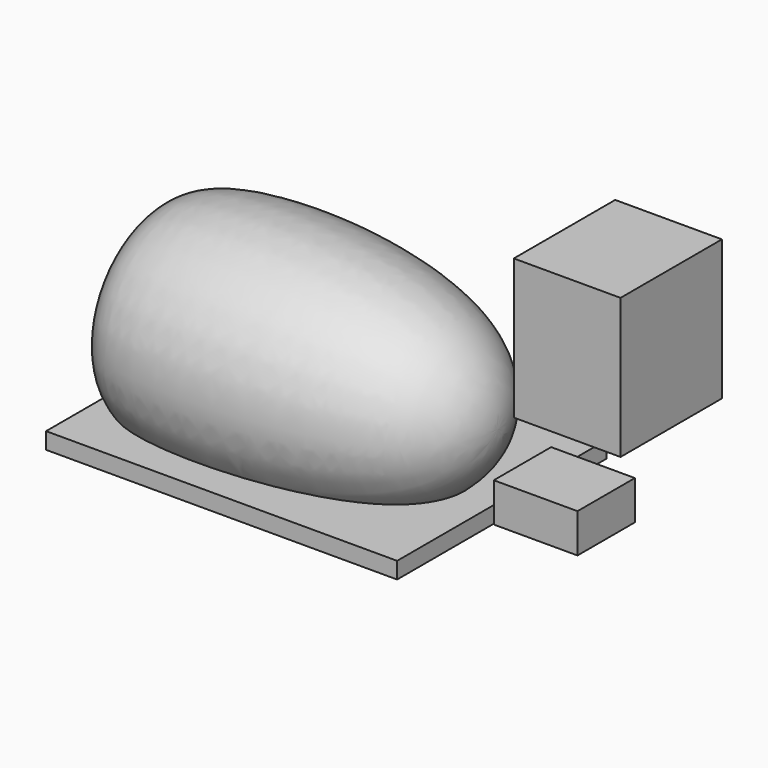
from build123d import *

# Parameters (mm, degrees)
F3_W          = 105.2532196045
F3_H          = 4.9405843019
F4_DEPTH      = 37.47697
F4_DEPTH_BACK = 41.04518
F5_W          = 25.1
F5_H          = 21.5
F6_DEPTH      = 11.7
F7_W          = 32
F7_H          = 38
F8_DEPTH      = 42


with BuildPart() as f2:
    # F0 (on Top) → F2 (revolve)
    with BuildSketch(Plane.XY):
        with BuildLine():
            add(Edge.make_bspline(
                [(0, 0), (0.2450121653, -7.966382748), (-13.094756908, -33.965562893), (-94.5380949913, -36.6688246631), (-102.0009481515, -25.3436889453), (-103.6303898238, -19.7135839509)],
                knots=[0, 0, 0, 0, 0.3027742251, 0.7790914601, 1, 1, 1, 1], degree=3))
            Line((0, 0), (-7.2615784593, 0))
            add(Edge.make_bspline(
                [(-97.6178643795, -20.2601770045), (-96.8786060506, -22.3539290403), (-92.3715666324, -29.0456948049), (-15.0021184586, -30.3458982987), (-7.5155254515, -5.1791248516), (-7.2615784593, 0)],
                knots=[0, 0, 0, 0, 0.1742288391, 0.6954299229, 1, 1, 1, 1], degree=3))
            Line((-97.6178643795, -20.2601770045), (-103.6303898238, -19.7135839509))
        make_face()
    revolve(axis=Axis((-67.4338643439, 0, 0), (1, 0, 0)))

    # F3 (on Front) → F4 (join, two sides)
    with BuildSketch(Plane.XZ) as f4_sk:
        with Locations((-52.6266098022, -21.820910275)):
            Rectangle(F3_W, F3_H)
    extrude(amount=F4_DEPTH)
    extrude(f4_sk.sketch, amount=-F4_DEPTH_BACK)


with BuildPart() as f6:
    # F5 (on Top) → F6 (new body)
    with BuildSketch(Plane.XY):
        with Locations((41.9543237507, -27.2650452256)):
            Rectangle(F5_W, F5_H)
    extrude(amount=F6_DEPTH)


with BuildPart() as f8:
    # F7 (on Top) → F8 (new body)
    with BuildSketch(Plane.XY):
        with Locations((15.1737861484, 26.2736367583)):
            Rectangle(F7_W, F7_H)
    extrude(amount=F8_DEPTH)


solid = Compound([f2.part, f6.part, f8.part])
